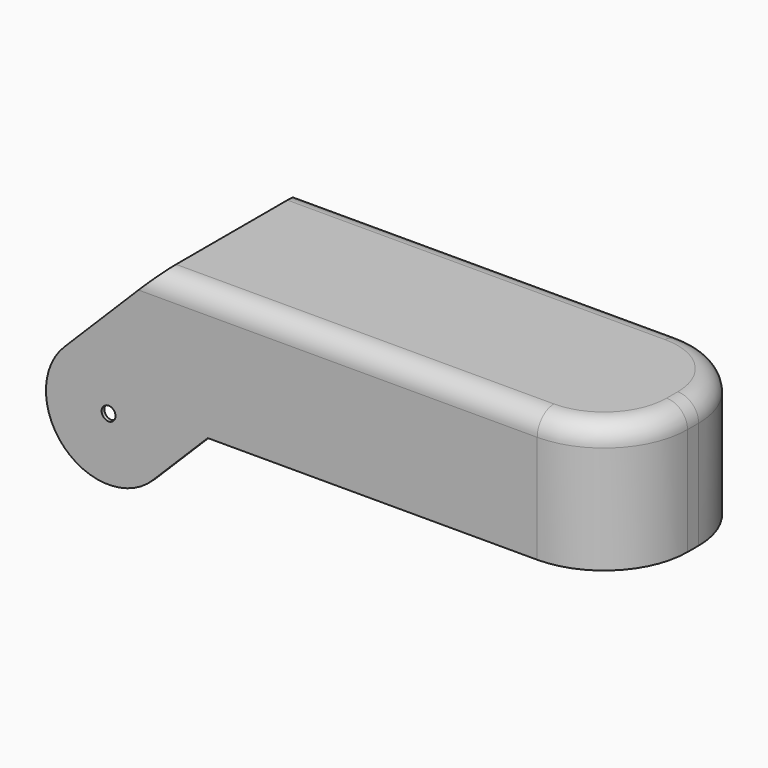
from build123d import *

# Parameters (mm, degrees)
SKETCH025_R             = 2
PAD015_DEPTH            = 52
POCKET009_DEPTH         = 60
SKETCH045_R             = 2
PAD026_DEPTH            = 25
LINEARPATTERN_COUNT     = 2
LINEARPATTERN_PITCH     = 25
FILLET005_R             = 24
FILLET006_R             = 6
BODY003_PLACEMENT_ANGLE = 180


with BuildPart() as part:
    # Sketch025 → Pad015 (new body)
    with BuildSketch(Plane.XZ):
        with BuildLine():
            ThreePointArc((-12.7279264704, -12.7279176523), (12.7279198568, -12.7279242659), (12.7279220614, 12.7279220614))
            Line((12.7279220614, 12.7279220614), (-14.605821279, 40.061665402))
            Line((-14.605821279, 40.061665402), (-147.231723, 40.061665402))
            Line((-147.231723, 40.061665402), (-147.231723, 3.061665402))
            Line((-147.231723, 3.061665402), (-28.5174940448, 3.061665402))
            Line((-12.7279264704, -12.7279176523), (-28.5174940448, 3.061665402))
        make_face()
        Circle(SKETCH025_R, mode=Mode.SUBTRACT)
    extrude(amount=PAD015_DEPTH)

    # Sketch026 (on Face5 of Pad015) → Pocket009 (cut)
    with BuildSketch(Plane(origin=(0, 0, -20.938334598), x_dir=(1, 0, 0), z_dir=(0, 0, -1))):
        with BuildLine():
            ThreePointArc((-121, 51), (-146, 26), (-121, 1))
            Line((-121, 1), (79, 1))
            ThreePointArc((79, 1), (104, 26), (79, 51))
            Line((-121, 51), (79, 51))
        make_face()
    extrude(amount=-POCKET009_DEPTH, mode=Mode.SUBTRACT)

    # Sketch045 (on Face13 of Pocket009) → Pad026 (join)
    with BuildSketch(Plane(origin=(0, 0, 39.061665402), x_dir=(1, 0, 0), z_dir=(0, 0, -1))):
        with BuildLine():
            Line((-47, 1), (-47, 5))
            ThreePointArc((-47, 5), (-50, 8), (-53, 5))
            Line((-53, 1), (-53, 5))
            Line((-47, 1), (-53, 1))
        make_face()
        with Locations((-50, 5)):
            Circle(SKETCH045_R, mode=Mode.SUBTRACT)
        with BuildLine():
            Line((-47, 51), (-47, 47))
            ThreePointArc((-53, 47), (-50, 44), (-47, 47))
            Line((-53, 51), (-53, 47))
            Line((-47, 51), (-53, 51))
        make_face()
        with Locations((-50, 47)):
            Circle(SKETCH045_R, mode=Mode.SUBTRACT)
    pad026 = extrude(amount=PAD026_DEPTH)

    # LinearPattern: Pad026 ×2
    with Locations(*[(-i * LINEARPATTERN_PITCH, 0, 0) for i in range(1, LINEARPATTERN_COUNT)]):
        add(pad026)

    # Fillet005
    fillet005_edges = [part.edges().sort_by_distance(p)[0] for p in [
        (-147.231723, 0, 21.561665),
        (-147.231723, -52, 21.561665),
    ]]
    fillet(fillet005_edges, radius=FILLET005_R)

    # Fillet006
    fillet006_edges = [part.edges().sort_by_distance(p)[0] for p in [
        (-68.918772, 0, 40.061665),
        (-140.202286, -7.029437, 40.061665),
        (-147.231723, -26, 40.061665),
        (-140.202286, -44.970563, 40.061665),
        (-68.918772, -52, 40.061665),
        (-146, -26, 39.061665),
        (-99.5, -51, 39.061665),
        (-62.5, -51, 39.061665),
        (-30.302911, -51, 39.061665),
        (-30.302911, -1, 39.061665),
        (-62.5, -1, 39.061665),
        (-99.5, -1, 39.061665),
    ]]
    fillet(fillet006_edges, radius=FILLET006_R)


with BuildPart() as part_1:
    # Body003 placement: moved
    add(part.part.moved(Location((0, -1, 0))).rotate(Axis((0, -1, 0), (0, 0, 1)), BODY003_PLACEMENT_ANGLE))


solid = part_1.part
